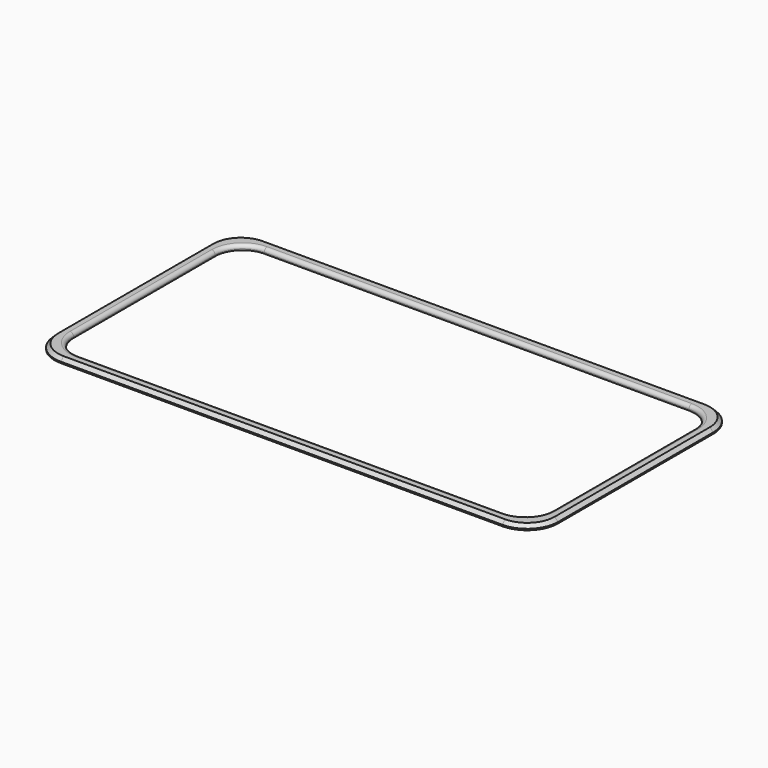
from build123d import *

# Parameters (mm, degrees)
PAD002_DEPTH = 1.4
FILLET_R     = 1
CHAMFER_SIZE = 1


with BuildPart() as part:
    # Sketch003 → Pad002 (new body)
    with BuildSketch(Plane.XY):
        with BuildLine():
            Line((-64.304214, 37.25), (64.304214, 37.25))
            ThreePointArc((73.3, 28.254214), (70.665195, 34.615195), (64.304214, 37.25))
            Line((73.3, 28.254214), (73.3, -28.254214))
            ThreePointArc((64.304214, -37.25), (70.665195, -34.615195), (73.3, -28.254214))
            Line((64.304214, -37.25), (-64.304214, -37.25))
            ThreePointArc((-73.3, -28.254214), (-70.665195, -34.615195), (-64.304214, -37.25))
            Line((-73.3, -28.254214), (-73.3, 28.254214))
            ThreePointArc((-64.304214, 37.25), (-70.665195, 34.615195), (-73.3, 28.254214))
        make_face()
        with BuildLine():
            Line((-61.82934, 33.75), (61.82934, 33.75))
            ThreePointArc((69.8, 25.77934), (67.465448, 31.415448), (61.82934, 33.75))
            Line((69.8, 25.77934), (69.8, -25.77934))
            ThreePointArc((61.82934, -33.75), (67.465448, -31.415448), (69.8, -25.77934))
            Line((61.82934, -33.75), (-61.82934, -33.75))
            ThreePointArc((-69.8, -25.77934), (-67.465448, -31.415448), (-61.82934, -33.75))
            Line((-69.8, -25.77934), (-69.8, 25.77934))
            ThreePointArc((-61.82934, 33.75), (-67.465448, 31.415448), (-69.8, 25.77934))
        make_face(mode=Mode.SUBTRACT)
    extrude(amount=PAD002_DEPTH)

    # Fillet
    fillet_edges = [part.edges().sort_by_distance(p)[0] for p in [
        (0, 33.75, 1.4),
        (-67.465448, 31.415448, 1.4),
        (-69.8, 0, 1.4),
        (-67.465448, -31.415448, 1.4),
        (0, -33.75, 1.4),
        (67.465448, -31.415448, 1.4),
        (69.8, 0, 1.4),
        (67.465448, 31.415448, 1.4),
    ]]
    fillet(fillet_edges, radius=FILLET_R)

    # Chamfer
    chamfer_edges = [part.edges().sort_by_distance(p)[0] for p in [
        (0, 37.25, 1.4),
        (70.665195, 34.615195, 1.4),
        (73.3, 0, 1.4),
        (70.665195, -34.615195, 1.4),
        (0, -37.25, 1.4),
        (-70.665195, -34.615195, 1.4),
        (-73.3, 0, 1.4),
        (-70.665195, 34.615195, 1.4),
    ]]
    chamfer(chamfer_edges, length=CHAMFER_SIZE)


solid = part.part
